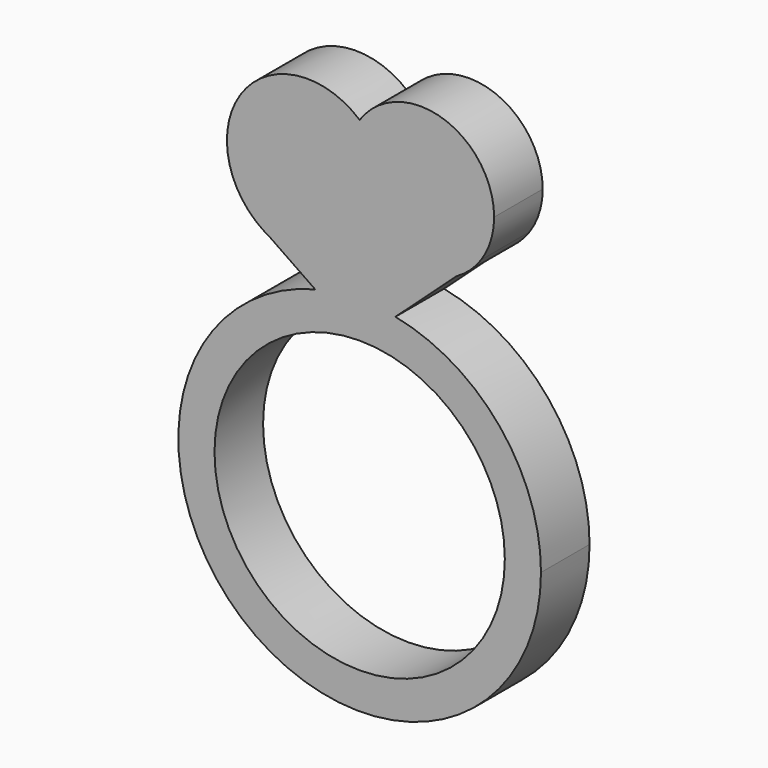
from build123d import *

# Parameters (mm, degrees)
F1_DEPTH  = 12.7
F1_FACE_R = 30.3566666554
F2_DEPTH  = 12.7


with BuildPart() as f1:
    # F0 (on Front) → F1 (new body)
    with BuildSketch(Plane.XZ):
        with BuildLine():
            ThreePointArc((-9.3004843115, 36.7589222648), (-23.2923661717, -29.9196098341), (37.9172437619, 0))
            ThreePointArc((37.9172437619, 0), (29.338119554, 24.020660181), (7.4829580234, 37.1715309574))
            Line((7.4829580234, 37.1715309574), (0, 30.3566666554))
            Line((0, 30.3566666554), (-9.3004843115, 36.7589222648))
        make_face()
        with BuildLine():
            ThreePointArc((30.3566666554, 0), (-21.4654048463, -21.4654048463), (0, 30.3566666554))
            ThreePointArc((0, 30.3566666554), (21.4654048463, 21.4654048463), (30.3566666554, 0))
        make_face(mode=Mode.SUBTRACT)
        with BuildLine():
            Line((0, 30.3566666554), (7.4829580234, 37.1715309574))
            ThreePointArc((7.4829580234, 37.1715309574), (-0.9318862244, 37.9057906205), (-9.3004843115, 36.7589222648))
            Line((-9.3004843115, 36.7589222648), (0, 30.3566666554))
        make_face()
        with BuildLine():
            ThreePointArc((-9.3004843115, 36.7589222648), (-0.9318862244, 37.9057906205), (7.4829580234, 37.1715309574))
            Line((7.4829580234, 37.1715309574), (20.2197378858, 48.7711451921))
            ThreePointArc((20.2197378858, 48.7711451921), (11.7747091364, 46.8406854256), (3.6217325155, 49.7688516961))
            ThreePointArc((3.6217325155, 49.7688516961), (-6.3831384952, 42.0012170686), (-18.9701891405, 43.4153414263))
            Line((-18.9701891405, 43.4153414263), (-9.3004843115, 36.7589222648))
        make_face()
        with BuildLine():
            ThreePointArc((3.6217325155, 49.7688516961), (11.7747091364, 46.8406854256), (20.2197378858, 48.7711451921))
            Line((20.2197378858, 48.7711451921), (25.3996234387, 53.4885600209))
            Line((25.3996234387, 53.4885600209), (0, 70.9731206298))
            ThreePointArc((0, 70.9731206298), (4.3420940931, 65.2280612526), (5.8836441513, 58.193637909))
            ThreePointArc((5.8836441513, 58.193637909), (5.3083274131, 53.8320651714), (3.6217325155, 49.7688516961))
        make_face()
        with BuildLine():
            Line((25.3996234387, 53.4885600209), (20.2197378858, 48.7711451921))
            ThreePointArc((20.2197378858, 48.7711451921), (23.0811869033, 50.8317293109), (25.3996234387, 53.4885600209))
        make_face()
        with BuildLine():
            ThreePointArc((-21.873843285, 45.4141551882), (-20.4745226574, 44.3384727889), (-18.9701891405, 43.4153414263))
            Line((-18.9701891405, 43.4153414263), (-21.873843285, 45.4141551882))
        make_face()
        with BuildLine():
            Line((-21.873843285, 45.4141551882), (-18.9701891405, 43.4153414263))
            ThreePointArc((-18.9701891405, 43.4153414263), (-6.3831384952, 42.0012170686), (3.6217325155, 49.7688516961))
            ThreePointArc((3.6217325155, 49.7688516961), (-2.498029855, 59.6350178914), (0, 70.9731206298))
            Line((0, 70.9731206298), (-21.873843285, 45.4141551882))
        make_face()
        with BuildLine():
            Line((0, 70.9731206298), (25.3996234387, 53.4885600209))
            ThreePointArc((25.3996234387, 53.4885600209), (27.4225414081, 57.653295881), (28.1177455183, 62.2308403254))
            ThreePointArc((28.1177455183, 62.2308403254), (17.2773561637, 76.9535700141), (0, 70.9731206298))
        make_face()
        with BuildLine():
            ThreePointArc((0, 70.9731206298), (-2.498029855, 59.6350178914), (3.6217325155, 49.7688516961))
            ThreePointArc((3.6217325155, 49.7688516961), (5.3083274131, 53.8320651714), (5.8836441513, 58.193637909))
            ThreePointArc((5.8836441513, 58.193637909), (4.3420940931, 65.2280612526), (0, 70.9731206298))
        make_face()
        with BuildLine():
            ThreePointArc((0, 70.9731206298), (-23.7164043633, 69.1305595515), (-21.873843285, 45.4141551882))
            Line((-21.873843285, 45.4141551882), (0, 70.9731206298))
        make_face()
    extrude(amount=-F1_DEPTH)

    # F0 (on Front) + F1_face (on face) → F2 (join)
    with BuildSketch(Plane.XZ):
        with BuildLine():
            ThreePointArc((-9.3004843115, 36.7589222648), (-23.2923661717, -29.9196098341), (37.9172437619, 0))
            ThreePointArc((37.9172437619, 0), (29.338119554, 24.020660181), (7.4829580234, 37.1715309574))
            Line((7.4829580234, 37.1715309574), (0, 30.3566666554))
            Line((0, 30.3566666554), (-9.3004843115, 36.7589222648))
        make_face()
        with BuildLine():
            ThreePointArc((30.3566666554, 0), (-21.4654048463, -21.4654048463), (0, 30.3566666554))
            ThreePointArc((0, 30.3566666554), (21.4654048463, 21.4654048463), (30.3566666554, 0))
        make_face(mode=Mode.SUBTRACT)
        with BuildLine():
            Line((0, 30.3566666554), (7.4829580234, 37.1715309574))
            ThreePointArc((7.4829580234, 37.1715309574), (-0.9318862244, 37.9057906205), (-9.3004843115, 36.7589222648))
            Line((-9.3004843115, 36.7589222648), (0, 30.3566666554))
        make_face()
        with BuildLine():
            ThreePointArc((-9.3004843115, 36.7589222648), (-0.9318862244, 37.9057906205), (7.4829580234, 37.1715309574))
            Line((7.4829580234, 37.1715309574), (20.2197378858, 48.7711451921))
            ThreePointArc((20.2197378858, 48.7711451921), (11.7747091364, 46.8406854256), (3.6217325155, 49.7688516961))
            ThreePointArc((3.6217325155, 49.7688516961), (-6.3831384952, 42.0012170686), (-18.9701891405, 43.4153414263))
            Line((-18.9701891405, 43.4153414263), (-9.3004843115, 36.7589222648))
        make_face()
        with BuildLine():
            ThreePointArc((3.6217325155, 49.7688516961), (11.7747091364, 46.8406854256), (20.2197378858, 48.7711451921))
            Line((20.2197378858, 48.7711451921), (25.3996234387, 53.4885600209))
            Line((25.3996234387, 53.4885600209), (0, 70.9731206298))
            ThreePointArc((0, 70.9731206298), (4.3420940931, 65.2280612526), (5.8836441513, 58.193637909))
            ThreePointArc((5.8836441513, 58.193637909), (5.3083274131, 53.8320651714), (3.6217325155, 49.7688516961))
        make_face()
        with BuildLine():
            Line((25.3996234387, 53.4885600209), (20.2197378858, 48.7711451921))
            ThreePointArc((20.2197378858, 48.7711451921), (23.0811869033, 50.8317293109), (25.3996234387, 53.4885600209))
        make_face()
        with BuildLine():
            ThreePointArc((-21.873843285, 45.4141551882), (-20.4745226574, 44.3384727889), (-18.9701891405, 43.4153414263))
            Line((-18.9701891405, 43.4153414263), (-21.873843285, 45.4141551882))
        make_face()
        with BuildLine():
            Line((-21.873843285, 45.4141551882), (-18.9701891405, 43.4153414263))
            ThreePointArc((-18.9701891405, 43.4153414263), (-6.3831384952, 42.0012170686), (3.6217325155, 49.7688516961))
            ThreePointArc((3.6217325155, 49.7688516961), (-2.498029855, 59.6350178914), (0, 70.9731206298))
            Line((0, 70.9731206298), (-21.873843285, 45.4141551882))
        make_face()
        with BuildLine():
            Line((0, 70.9731206298), (25.3996234387, 53.4885600209))
            ThreePointArc((25.3996234387, 53.4885600209), (27.4225414081, 57.653295881), (28.1177455183, 62.2308403254))
            ThreePointArc((28.1177455183, 62.2308403254), (17.2773561637, 76.9535700141), (0, 70.9731206298))
        make_face()
        with BuildLine():
            ThreePointArc((0, 70.9731206298), (-2.498029855, 59.6350178914), (3.6217325155, 49.7688516961))
            ThreePointArc((3.6217325155, 49.7688516961), (5.3083274131, 53.8320651714), (5.8836441513, 58.193637909))
            ThreePointArc((5.8836441513, 58.193637909), (4.3420940931, 65.2280612526), (0, 70.9731206298))
        make_face()
        with BuildLine():
            ThreePointArc((0, 70.9731206298), (-23.7164043633, 69.1305595515), (-21.873843285, 45.4141551882))
            Line((-21.873843285, 45.4141551882), (0, 70.9731206298))
        make_face()
    with BuildSketch(Plane(origin=(0.0200571073, 0, 29.7715951258), x_dir=(1, 0, 0), z_dir=(0, -1, 0))):
        with BuildLine():
            ThreePointArc((20.1996807784, 18.9995500663), (24.0788656265, 42.8406203835), (-0.0200571073, 41.201525504))
            ThreePointArc((-0.0200571073, 41.201525504), (-24.8121438699, 37.9596437982), (-18.9902462478, 13.6437463005))
            Line((-18.9902462478, 13.6437463005), (-9.3205414189, 6.987327139))
            ThreePointArc((-9.3205414189, 6.987327139), (0.9118291171, -67.6773857463), (7.4629009161, 7.3999358316))
            Line((7.4629009161, 7.3999358316), (20.1996807784, 18.9995500663))
        make_face()
        with Locations((-0.0200571073, -29.7715951258)):
            Circle(F1_FACE_R, mode=Mode.SUBTRACT)
    extrude(amount=-F2_DEPTH)


solid = f1.part
